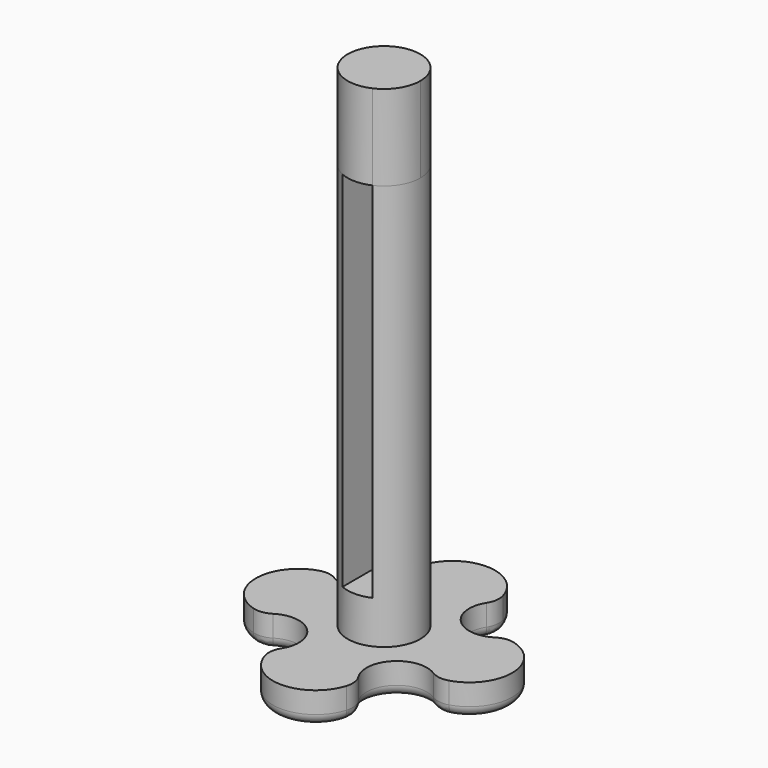
from build123d import *

# Parameters (mm, degrees)
F0_R     = 4.318
F1_DEPTH = 3.81
F2_DEPTH = 52.07
F4_DEPTH = 43.18
F6_DEPTH = 10.16
F7_R     = 2.54
F8_R     = 1.27


with BuildPart() as f1:
    # F0 (on Top) → F1 (new body)
    with BuildSketch(Plane.XY):
        with BuildLine():
            ThreePointArc((10.16, 5.08), (5.08, 5.08), (5.08, 10.16))
            ThreePointArc((5.08, 10.16), (0, 15.24), (-5.08, 10.16))
            ThreePointArc((-5.08, 10.16), (-5.08, 5.08), (-10.16, 5.08))
            ThreePointArc((-10.16, 5.08), (-15.24, 0), (-10.16, -5.08))
            ThreePointArc((-10.16, -5.08), (-5.08, -5.08), (-5.08, -10.16))
            ThreePointArc((-5.08, -10.16), (0, -15.24), (5.08, -10.16))
            ThreePointArc((5.08, -10.16), (5.08, -5.08), (10.16, -5.08))
            ThreePointArc((10.16, -5.08), (15.24, 0), (10.16, 5.08))
        make_face()
        Circle(F0_R, mode=Mode.SUBTRACT)
    extrude(amount=F1_DEPTH)

    # F0 (on Top) → F2 (join)
    with BuildSketch(Plane.XY):
        Circle(F0_R)
    extrude(amount=F2_DEPTH)

    # F3 (on face) → F4 (cut)
    with BuildSketch(Plane.XY.offset(52.07)):
        with BuildLine():
            Line((1.778, -3.9349510797), (1.778, 3.9349510797))
            ThreePointArc((1.778, 3.9349510797), (0, 4.318), (-1.778, 3.9349510797))
            Line((-1.778, 3.9349510797), (-1.778, -3.9349510797))
            ThreePointArc((-1.778, -3.9349510797), (0, -4.318), (1.778, -3.9349510797))
        make_face()
    extrude(amount=-F4_DEPTH, mode=Mode.SUBTRACT)

    # F5 (on face) → F6 (join)
    with BuildSketch(Plane.XY.offset(52.07)):
        with BuildLine():
            Line((1.778, -3.9349510797), (1.778, 3.9349510797))
            ThreePointArc((1.778, 3.9349510797), (-4.318, 0), (1.778, -3.9349510797))
        make_face()
        with BuildLine():
            ThreePointArc((1.778, -3.9349510797), (3.6278456417, -2.3417642922), (4.318, 0))
            ThreePointArc((4.318, 0), (3.6278456417, 2.3417642922), (1.778, 3.9349510797))
            Line((1.778, 3.9349510797), (1.778, -3.9349510797))
        make_face()
    extrude(amount=F6_DEPTH)

    # F7
    f7_edges = [f1.edges().sort_by_distance(p)[0] for p in [
        (-5.08, -10.16, 1.905),
        (-10.16, -5.08, 1.905),
        (5.08, -10.16, 1.905),
        (10.16, -5.08, 1.905),
        (10.16, 5.08, 1.905),
        (5.08, 10.16, 1.905),
        (-10.16, 5.08, 1.905),
        (-5.08, 10.16, 1.905),
    ]]
    fillet(f7_edges, radius=F7_R)

    # F8
    f8_edges = [f1.edges().sort_by_distance(p)[0] for p in [
        (-15.24, 0, 0),
        (-5.08, -5.08, 0),
        (0, -15.24, 0),
        (-10.547376, -4.949482, 0),
        (5.08, -5.08, 0),
        (4.949482, -10.547376, 0),
        (10.547376, -4.949482, 0),
        (15.24, 0, 0),
        (10.547376, 4.949482, 0),
        (5.08, 5.08, 0),
        (4.949482, 10.547376, 0),
        (0, 15.24, 0),
        (-4.949482, 10.547376, 0),
        (-5.08, 5.08, 0),
        (-10.547376, 4.949482, 0),
        (-4.949482, -10.547376, 0),
    ]]
    fillet(f8_edges, radius=F8_R)


solid = f1.part
